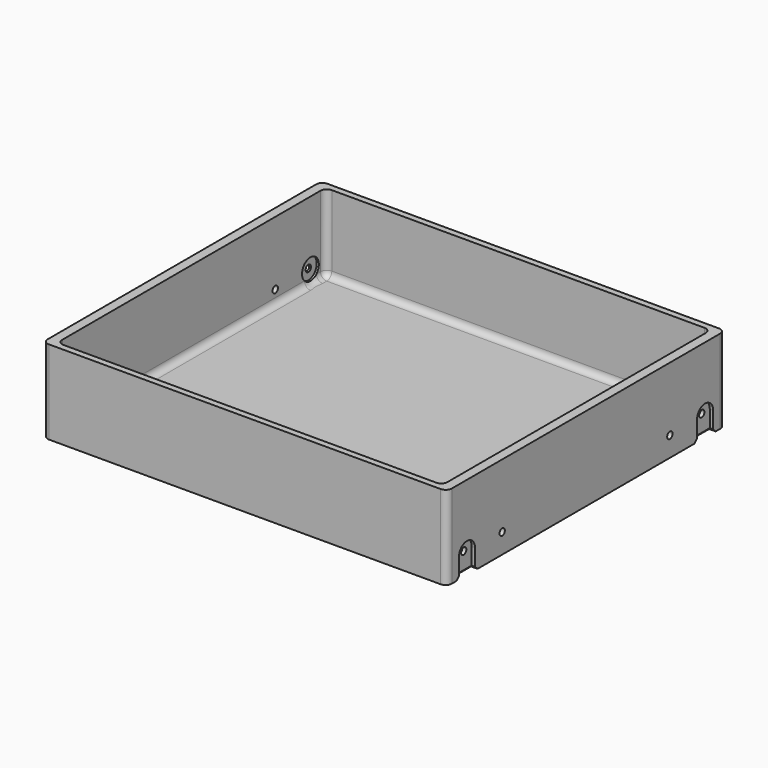
from build123d import *

# Parameters (mm, degrees)
SKETCH_W        = 192.8
SKETCH_H        = 166
PAD_DEPTH       = 40
SKETCH001_W     = 183.8
SKETCH001_H     = 160
POCKET_DEPTH    = 37
SKETCH002_R     = 1.6
POCKET001_DEPTH = 192.801
POCKET002_DEPTH = 2.6
SKETCH004_R     = 5
POCKET003_DEPTH = 1
SKETCH005_R     = 5
POCKET004_DEPTH = 1
POCKET005_DEPTH = 1.6
FILLET_R        = 3
CHAMFER_SIZE    = 1.5


with BuildPart() as part:
    # Sketch → Pad (new body)
    with BuildSketch(Plane.XY):
        Rectangle(SKETCH_W, SKETCH_H)
    extrude(amount=PAD_DEPTH)

    # Sketch001 (on Face6 of Pad) → Pocket (cut)
    with BuildSketch(Plane.XY.offset(40)):
        Rectangle(SKETCH001_W, SKETCH001_H)
    extrude(amount=-POCKET_DEPTH, mode=Mode.SUBTRACT)

    # Sketch002 (on Face3 of Pocket) → Pocket001 (cut, through all)
    with BuildSketch(Plane.YZ.offset(96.4)):
        with Locations((-71, 9.5)):
            Circle(SKETCH002_R)
        with Locations((-50, 9.5)):
            Circle(SKETCH002_R)
        with Locations((50, 9.5)):
            Circle(SKETCH002_R)
        with Locations((71, 9.5)):
            Circle(SKETCH002_R)
    extrude(amount=-POCKET001_DEPTH, mode=Mode.SUBTRACT)

    # Sketch003 (on Face2 of Pocket001) → Pocket002 (cut)
    with BuildSketch(Plane(origin=(-96.4, 0, 0), x_dir=(0, -1, 0), z_dir=(-1, 0, 0))):
        with BuildLine():
            ThreePointArc((-66.2, 9.5), (-71, 14.3), (-75.8, 9.5))
            Line((-75.8, 9.5), (-75.8, -4.8))
            ThreePointArc((-75.8, -4.8), (-71, -9.6), (-66.2, -4.8))
            Line((-66.2, -4.8), (-66.2, 9.5))
        make_face()
        with BuildLine():
            ThreePointArc((75.8, 9.5), (71, 14.3), (66.2, 9.5))
            Line((66.2, 9.5), (66.2, -4.8))
            ThreePointArc((66.2, -4.8), (71, -9.6), (75.8, -4.8))
            Line((75.8, -4.8), (75.8, 9.5))
        make_face()
    extrude(amount=-POCKET002_DEPTH, mode=Mode.SUBTRACT)

    # Sketch004 (on Face21 of Pocket002) → Pocket003 (cut)
    with BuildSketch(Plane.YZ.offset(-91.9)):
        with Locations((-71, 9.5)):
            Circle(SKETCH004_R)
        with Locations((71, 9.5)):
            Circle(SKETCH004_R)
    extrude(amount=-POCKET003_DEPTH, mode=Mode.SUBTRACT)

    # Sketch005 (on Face23 of Pocket003) → Pocket004 (cut)
    with BuildSketch(Plane(origin=(91.9, 0, 0), x_dir=(0, -1, 0), z_dir=(-1, 0, 0))):
        with Locations((-71, 9.5)):
            Circle(SKETCH005_R)
        with Locations((71, 9.5)):
            Circle(SKETCH005_R)
    extrude(amount=-POCKET004_DEPTH, mode=Mode.SUBTRACT)

    # Sketch006 (on Face3 of Pocket004) → Pocket005 (cut)
    with BuildSketch(Plane.YZ.offset(96.4)):
        with BuildLine():
            ThreePointArc((-66.2, 9.5), (-71, 14.3), (-75.8, 9.5))
            Line((-75.8, 9.5), (-75.8, -4.8))
            ThreePointArc((-75.8, -4.8), (-71, -9.6), (-66.2, -4.8))
            Line((-66.2, -4.8), (-66.2, 9.5))
        make_face()
        with BuildLine():
            ThreePointArc((75.8, 9.5), (71, 14.3), (66.2, 9.5))
            Line((66.2, 9.5), (66.2, -4.8))
            ThreePointArc((66.2, -4.8), (71, -9.6), (75.8, -4.8))
            Line((75.8, -4.8), (75.8, 9.5))
        make_face()
    extrude(amount=-POCKET005_DEPTH, mode=Mode.SUBTRACT)

    # Fillet
    fillet_edges = [part.edges().sort_by_distance(p)[0] for p in [
        (91.9, 80, 21.5),
        (-91.9, 80, 21.5),
        (-91.9, -80, 21.5),
        (91.9, -80, 21.5),
        (91.9, 0, 3),
        (0, -80, 3),
        (-91.9, 0, 3),
        (0, 80, 3),
        (-96.4, 83, 20),
        (-96.4, -83, 20),
        (96.4, -83, 20),
        (96.4, 83, 20),
    ]]
    fillet(fillet_edges, radius=FILLET_R)

    # Chamfer
    chamfer_edges = [part.edges().sort_by_distance(p)[0] for p in [
        (-93.8, -71, 0),
        (-95.1, -66.2, 0),
        (-95.1, -75.8, 0),
        (-95.1, 75.8, 0),
        (-93.8, 71, 0),
        (-95.1, 66.2, 0),
        (94.8, -71, 0),
        (95.6, -66.2, 0),
        (95.6, -75.8, 0),
        (94.8, 71, 0),
        (95.6, 66.2, 0),
        (95.6, 75.8, 0),
    ]]
    chamfer(chamfer_edges, length=CHAMFER_SIZE)


solid = part.part
